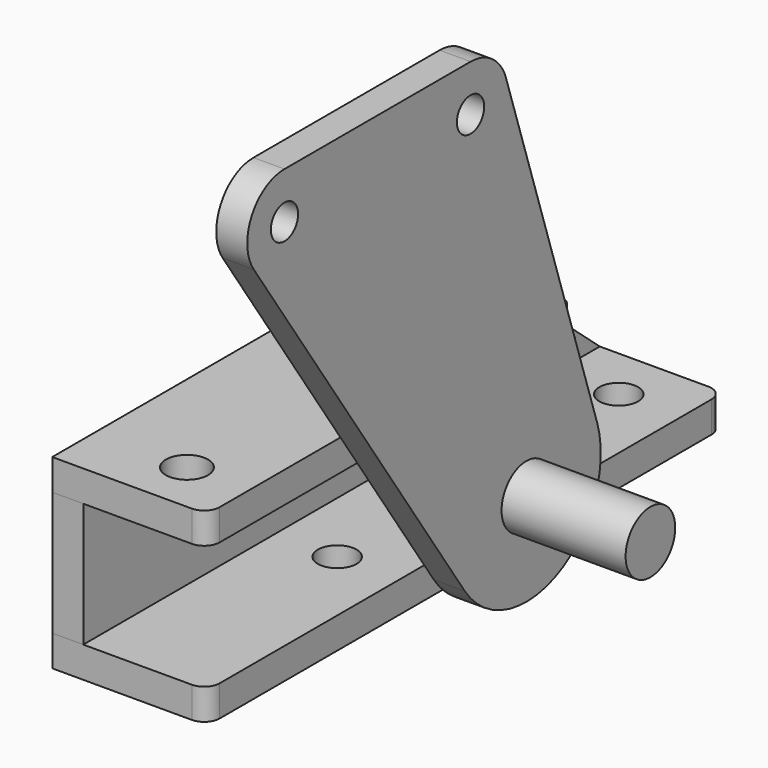
from build123d import *

# Parameters (mm, degrees)
F0_R      = 12.7
F1_DEPTH  = 63.5
F0_R_2    = 6.985
F2_DEPTH  = 12.7
F3_R      = 8.636
F4_DEPTH  = 12.7
F6_DEPTH  = 12.7
F7_W      = 12.7
F7_H      = 50.8
F8_DEPTH  = 50.8
F9_R      = 7.9375
F10_DEPTH = 12.7


with BuildPart() as f1:
    # F0 (on Right) → F1 (new body)
    with BuildSketch(Plane.YZ):
        Circle(F0_R)
    extrude(amount=F1_DEPTH)


with BuildPart() as f2:
    # F0 (on Right) → F2 (new body)
    with BuildSketch(Plane.YZ):
        with BuildLine():
            Line((-28.575, 168.275), (-123.825, 168.275))
            ThreePointArc((-123.825, 168.275), (-140.648858, 158.161458), (-139.609327, 138.559282))
            Line((-139.609327, 138.559282), (-31.568653, -21.331436))
            ThreePointArc((-31.568653, -21.331436), (16.729012, -34.230836), (36.226388, 11.800798))
            Line((36.226388, 11.800798), (-10.461806, 155.125399))
            ThreePointArc((-10.461806, 155.125399), (-17.383488, 164.640984), (-28.575, 168.275))
        make_face()
        Circle(F0_R, mode=Mode.SUBTRACT)
        with Locations((-123.825, 149.225)):
            Circle(F0_R_2, mode=Mode.SUBTRACT)
        with Locations((-28.575, 149.225)):
            Circle(F0_R_2, mode=Mode.SUBTRACT)
    extrude(amount=F2_DEPTH)


with BuildPart() as f4:
    # F3 (on Top) → F4 (new body)
    with BuildSketch(Plane.XY):
        with BuildLine():
            Line((-50.254895, 95.641809), (-107.404895, 95.641809))
            Line((-107.404895, 95.641809), (-107.404895, -92.572191))
            Line((-107.404895, -92.572191), (-50.254895, -92.572191))
            ThreePointArc((-50.254895, -92.572191), (-45.764767, -90.712319), (-43.904895, -86.222191))
            Line((-43.904895, -86.222191), (-43.904895, 89.291809))
            ThreePointArc((-43.904895, 89.291809), (-45.764767, 93.781937), (-50.254895, 95.641809))
        make_face()
        with Locations((-69.304895, -71.236191)):
            Circle(F3_R, mode=Mode.SUBTRACT)
        with Locations((-69.304895, 74.305809)):
            Circle(F3_R, mode=Mode.SUBTRACT)
    extrude(amount=F4_DEPTH)


with BuildPart() as f6:
    # F5 (on face) → F6 (new body)
    with BuildSketch(Plane(origin=(-107.404895, 0, 0), x_dir=(0, -1, 0), z_dir=(-1, 0, 0))):
        with BuildLine():
            ThreePointArc((-95.641809, 12.7), (-97.849654, 12.303815), (-99.781999, 11.164699))
            Line((-99.781999, 11.164699), (-171.841809, -50.8))
            Line((-171.841809, -50.8), (92.572191, -50.8))
            Line((92.572191, -50.8), (92.572191, 0))
            Line((92.572191, 0), (-95.641809, 0))
            Line((-95.641809, 0), (-95.641809, 12.7))
        make_face()
    extrude(amount=-F6_DEPTH)


with BuildPart() as f8:
    # F7 (on face) → F8 (new body, through all)
    with BuildSketch(Plane.YZ.offset(-94.704895)):
        with Locations((89.291809, -25.4)):
            Rectangle(F7_W, F7_H)
    extrude(amount=F8_DEPTH)


with BuildPart() as f10:
    # F9 (on face) → F10 (new body)
    with BuildSketch(Plane(origin=(0, 0, -50.8), x_dir=(1, 0, 0), z_dir=(0, 0, -1))):
        with BuildLine():
            Line((-107.404895, 92.572191), (-107.404895, -171.841809))
            Line((-107.404895, -171.841809), (-50.254895, -171.841809))
            ThreePointArc((-50.254895, -171.841809), (-45.764767, -169.981937), (-43.904895, -165.491809))
            Line((-43.904895, -165.491809), (-43.904895, 86.222191))
            ThreePointArc((-43.904895, 86.222191), (-45.764767, 90.712319), (-50.254895, 92.572191))
            Line((-50.254895, 92.572191), (-107.404895, 92.572191))
        make_face()
        with Locations((-69.304895, -149.807309)):
            Circle(F9_R, mode=Mode.SUBTRACT)
        with Locations((-69.304895, -5.662309)):
            Circle(F9_R, mode=Mode.SUBTRACT)
    extrude(amount=F10_DEPTH)


solid = Compound([f1.part, f2.part, f4.part, f6.part, f8.part, f10.part])
